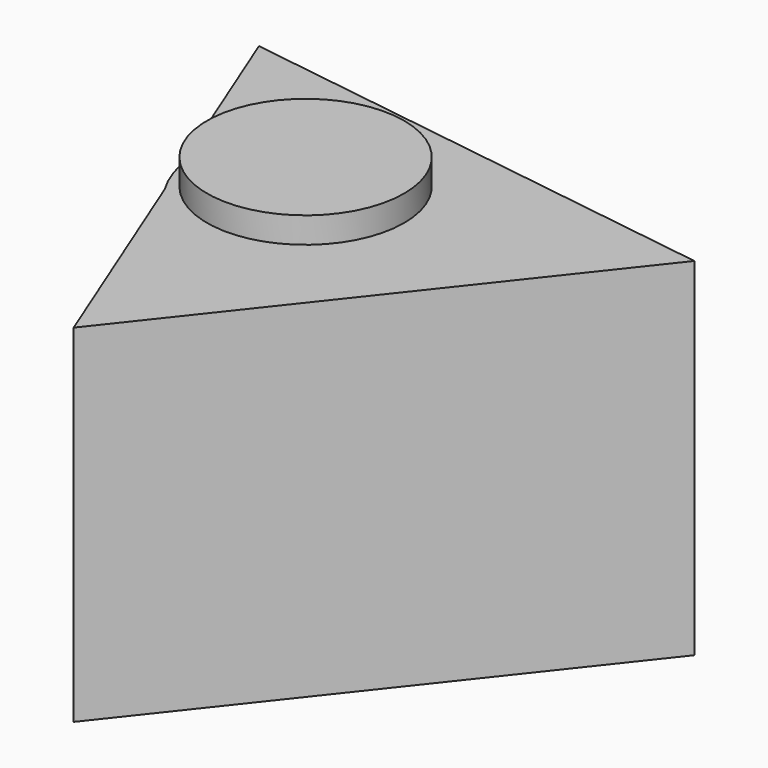
from build123d import *

# Parameters (mm, degrees)
F1_DEPTH = 25.4
F3_DEPTH = 35.814
F4_R     = 17.384083
F5_DEPTH = 4.572


with BuildPart() as f1:
    # F0 (on Top) → F1 (new body)
    with BuildSketch(Plane.XY):
        Polygon((-35.676657, -9.338491), (18.646077, 59.587132), (-68.206631, 72.169188), align=None)
    extrude(amount=F1_DEPTH)

    # F2 (on face) → F3 (join)
    with BuildSketch(Plane.XY.offset(25.4)):
        with BuildLine():
            Line((-51.654875, 30.696816), (-54.485089, 37.788251))
            ThreePointArc((-54.485089, 37.788251), (-53.363226, 34.125499), (-51.654875, 30.696816))
        make_face()
        with BuildLine():
            ThreePointArc((-54.485089, 37.788251), (-34.270187, 65.84384), (-8.542018, 42.739302))
            ThreePointArc((-8.542018, 42.739302), (-25.528601, 20.357725), (-51.654875, 30.696816))
            Line((-51.654875, 30.696816), (-35.676657, -9.338491))
            Line((-35.676657, -9.338491), (18.646077, 59.587132))
            Line((18.646077, 59.587132), (-68.206631, 72.169188))
            Line((-68.206631, 72.169188), (-54.485089, 37.788251))
        make_face()
        with BuildLine():
            ThreePointArc((-51.654875, 30.696816), (-25.528601, 20.357725), (-8.542018, 42.739302))
            ThreePointArc((-8.542018, 42.739302), (-34.270187, 65.84384), (-54.485089, 37.788251))
            Line((-54.485089, 37.788251), (-51.654875, 30.696816))
        make_face()
    extrude(amount=F3_DEPTH)

    # F4 (on face) → F5 (join)
    with BuildSketch(Plane.XY.offset(61.214)):
        with Locations((-37.021548, 43.473128)):
            Circle(F4_R)
    extrude(amount=F5_DEPTH)


solid = f1.part
